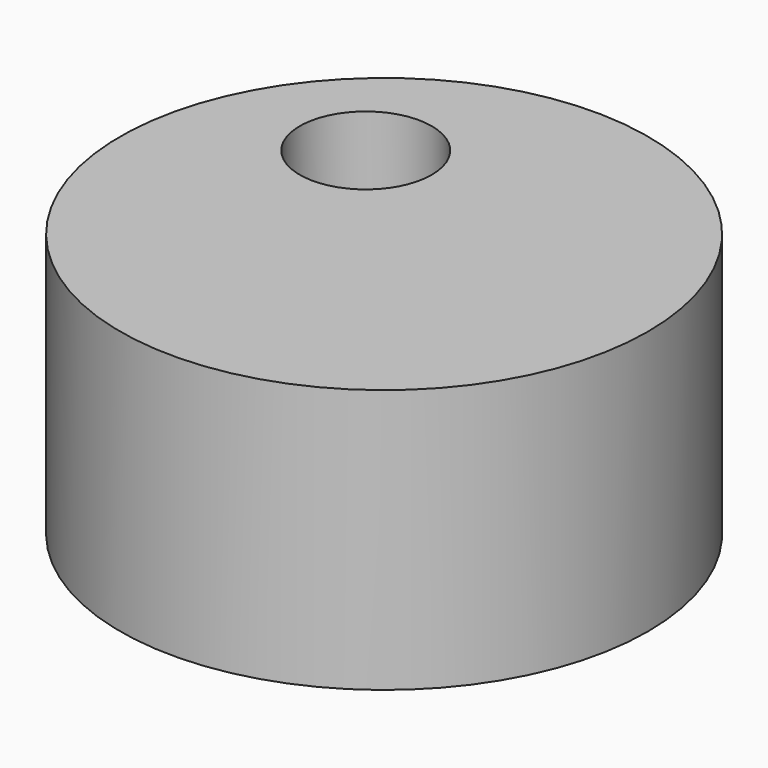
from build123d import *

# Parameters (mm, degrees)
F0_W     = 20
F0_H     = 20
F2_R     = 5
F3_DEPTH = 40


with BuildPart() as f1:
    # F0 (on Front) → F1 (revolve)
    with BuildSketch(Plane.XZ):
        with Locations((10, 10)):
            Rectangle(F0_W, F0_H)
    revolve(axis=Axis((0, 0, 10), (0, 0, 1)))

    # F2 (on face) → F3 (cut)
    with BuildSketch(Plane.XY.offset(20)):
        with Locations((-7.540628, 7.685646)):
            Circle(F2_R)
    extrude(amount=-F3_DEPTH, mode=Mode.SUBTRACT)


solid = f1.part
